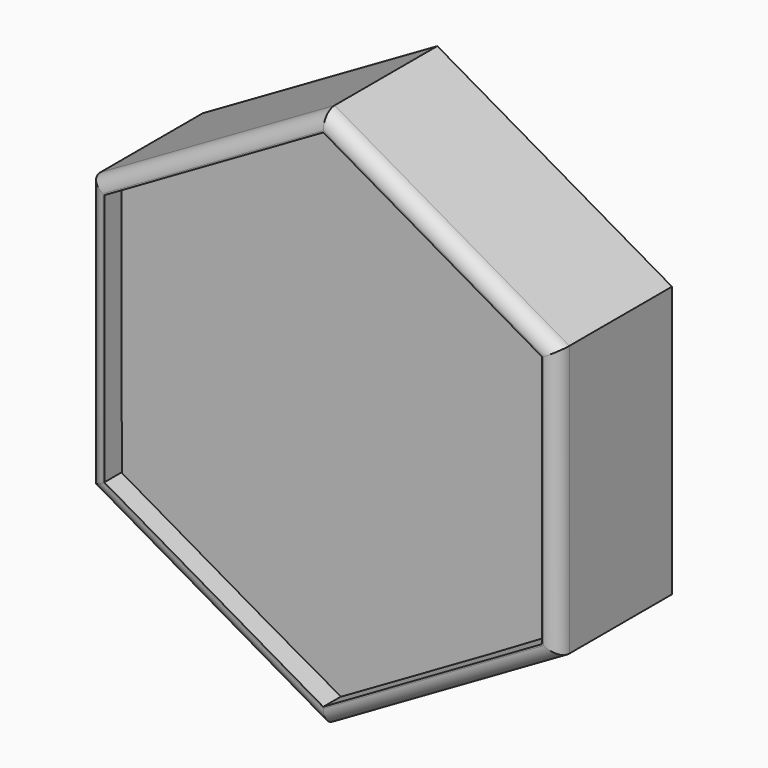
from build123d import *

# Parameters (mm, degrees)
F1_DEPTH = 25.4
F3_DEPTH = 21.59
F4_R     = 2.54


with BuildPart() as f1:
    # F0 (on Front) → F1 (new body)
    with BuildSketch(Plane.XZ):
        Polygon((0.004891, 48.265907), (-41.797056, 24.137189), (-41.801947, -24.128718), (-0.004891, -48.265907), (41.797056, -24.137189), (41.801947, 24.128718), align=None)
        Polygon((-39.000372, 22.522145), (0.004563, 45.036386), (39.004936, 22.514241), (39.000372, -22.522145), (-0.004563, -45.036386), (-39.004936, -22.514241), align=None, mode=Mode.SUBTRACT)
    extrude(amount=F1_DEPTH)

    # F2 (on Front) → F3 (join)
    with BuildSketch(Plane.XZ):
        Polygon((38.877433, 22.890052), (-0.38465, 45.113871), (-39.262083, 22.223819), (-38.877433, -22.890052), (0.38465, -45.113871), (39.262083, -22.223819), align=None)
    extrude(amount=F3_DEPTH)

    # F4
    f4_edges = [f1.edges().sort_by_distance(p)[0] for p in [
        (-20.903419, -25.4, -36.197312),
        (-41.799501, -25.4, 0.004235),
        (-20.896083, -25.4, 36.201548),
        (20.896083, -25.4, -36.201548),
        (41.799501, -25.4, -0.004235),
        (20.903419, -25.4, 36.197312),
    ]]
    fillet(f4_edges, radius=F4_R)


solid = f1.part
